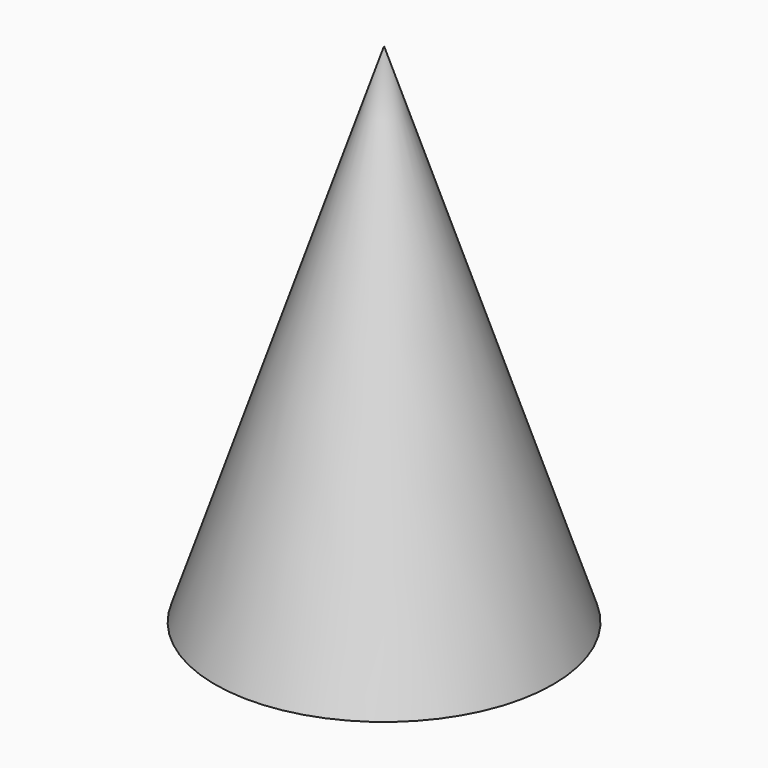
from build123d import *

# Parameters (mm, degrees)
F2_R     = 3.81
F3_DEPTH = 6.35


with BuildPart() as f1:
    # F0 (on Front) → F1 (revolve)
    with BuildSketch(Plane.XZ):
        Polygon((0, 19.05), (0, 0), (6.35, 0), align=None)
    revolve(axis=Axis((0, 0, 4.841133), (0, 0, -1)))

    # F2 (on face) → F3 (cut)
    with BuildSketch(Plane(origin=(0, 0, 0), x_dir=(1, 0, 0), z_dir=(0, 0, -1))):
        Circle(F2_R)
    extrude(amount=-F3_DEPTH, mode=Mode.SUBTRACT)


solid = f1.part
